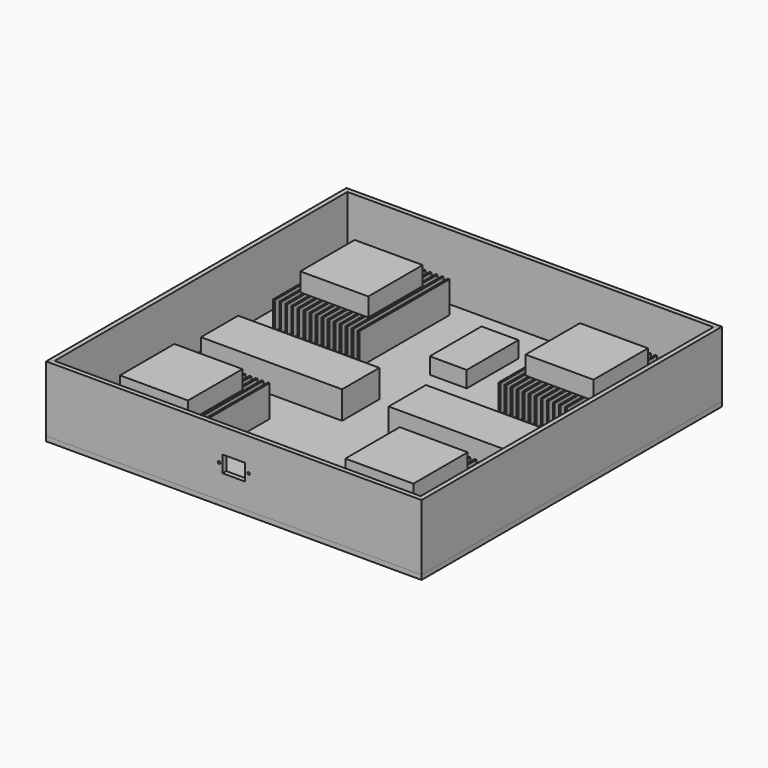
from build123d import *

# Parameters (mm, degrees)
F2_W      = 116.84
F2_H      = 5.842
F3_DEPTH  = 152.4
F4_W      = 2.5146
F4_H      = 36.8554
F5_DEPTH  = 152.4
F6_R      = 1.75
F7_DEPTH  = 42.6984
F10_W     = 508
F10_H     = 508
F10_R     = 46
F11_DEPTH = 6.35
F12_W     = 92
F12_H     = 92
F13_DEPTH = 25
F15_DEPTH = 88.9
F17_COUNT = 4
F18_W     = 30.3
F18_H     = 22.3
F18_R     = 1.7
F19_DEPTH = 508.001
F20_W     = 191
F20_H     = 63
F21_DEPTH = 37.5
F22_W     = 50
F22_H     = 87.5
F23_DEPTH = 22


with BuildPart() as f3:
    # F2 (on plane+point) → F3 (new body, through all)
    with BuildSketch(Plane.XZ.offset(-228.6)):
        with Locations((-152.4, 2.921)):
            Rectangle(F2_W, F2_H)
    extrude(amount=F3_DEPTH)

    # F4 (on face) → F5 (join, through all)
    with BuildSketch(Plane(origin=(0, 228.6, 0), x_dir=(-1, 0, 0), z_dir=(0, 1, 0))):
        with Locations((95.2373, 24.2697)):
            Rectangle(F4_W, F4_H)
        with Locations((103.4034, 24.2697)):
            Rectangle(F4_W, F4_H)
        with Locations((111.5695, 24.2697)):
            Rectangle(F4_W, F4_H)
        with Locations((119.7356, 24.2697)):
            Rectangle(F4_W, F4_H)
        with Locations((127.9017, 24.2697)):
            Rectangle(F4_W, F4_H)
        with Locations((136.0678, 24.2697)):
            Rectangle(F4_W, F4_H)
        with Locations((144.2339, 24.2697)):
            Rectangle(F4_W, F4_H)
        with Locations((152.4, 24.2697)):
            Rectangle(F4_W, F4_H)
        with Locations((160.5661, 24.2697)):
            Rectangle(F4_W, F4_H)
        with Locations((168.7322, 24.2697)):
            Rectangle(F4_W, F4_H)
        with Locations((176.8983, 24.2697)):
            Rectangle(F4_W, F4_H)
        with Locations((185.0644, 24.2697)):
            Rectangle(F4_W, F4_H)
        with Locations((193.2305, 24.2697)):
            Rectangle(F4_W, F4_H)
        with Locations((201.3966, 24.2697)):
            Rectangle(F4_W, F4_H)
        with Locations((209.5627, 24.2697)):
            Rectangle(F4_W, F4_H)
    extrude(amount=-F5_DEPTH)

    # F6 (on face) → F7 (cut, through all)
    with BuildSketch(Plane.XY):
        with Locations((-173.9, 152.4)):
            Circle(F6_R)
        with Locations((-152.4, 130.9)):
            Circle(F6_R)
        with Locations((-130.9, 152.4)):
            Circle(F6_R)
        with Locations((-152.4, 173.9)):
            Circle(F6_R)
        with Locations((-189.9, 152.4)):
            Circle(F6_R)
        with Locations((-152.4, 114.9)):
            Circle(F6_R)
        with Locations((-114.9, 152.4)):
            Circle(F6_R)
        with Locations((-152.4, 189.9)):
            Circle(F6_R)
    extrude(amount=F7_DEPTH, mode=Mode.SUBTRACT)


with BuildPart() as f8_1:
    # F8: instance of F3
    add(f3.part.mirror(Plane.YZ))


with BuildPart() as f9_1:
    # F9: instance of F3
    add(f3.part.mirror(Plane.XZ))


with BuildPart() as f9_2:
    # F9: instance of F8_1
    add(f8_1.part.mirror(Plane.XZ))


with BuildPart() as f11:
    # F10 (on face) → F11 (new body)
    with BuildSketch(Plane(origin=(0, 0, 0), x_dir=(1, 0, 0), z_dir=(0, 0, -1))):
        Rectangle(F10_W, F10_H)
        with Locations((-152.4, -152.4)):
            Circle(F10_R, mode=Mode.SUBTRACT)
        with Locations((152.4, -152.4)):
            Circle(F10_R, mode=Mode.SUBTRACT)
        with Locations((-152.4, 152.4)):
            Circle(F10_R, mode=Mode.SUBTRACT)
        with Locations((152.4, 152.4)):
            Circle(F10_R, mode=Mode.SUBTRACT)
    extrude(amount=F11_DEPTH)


with BuildPart() as f13:
    # F12 (on face) → F13 (new body)
    with BuildSketch(Plane.XY.offset(42.6974)):
        with Locations((-152.4, 152.4)):
            Rectangle(F12_W, F12_H)
    extrude(amount=F13_DEPTH)


with BuildPart() as f13b:
    # F12 (on face) → F13, piece 2 (new body)
    with BuildSketch(Plane.XY.offset(42.6974)):
        with Locations((152.4, 152.4)):
            Rectangle(F12_W, F12_H)
    extrude(amount=F13_DEPTH)


with BuildPart() as f13c:
    # F12 (on face) → F13, piece 3 (new body)
    with BuildSketch(Plane.XY.offset(42.6974)):
        with Locations((152.4, -152.4)):
            Rectangle(F12_W, F12_H)
    extrude(amount=F13_DEPTH)


with BuildPart() as f13d:
    # F12 (on face) → F13, piece 4 (new body)
    with BuildSketch(Plane.XY.offset(42.6974)):
        with Locations((-152.4, -152.4)):
            Rectangle(F12_W, F12_H)
    extrude(amount=F13_DEPTH)


with BuildPart() as f15:
    # F14 (on face) → F15 (new body)
    with BuildSketch(Plane.XY):
        Polygon((-247.65, 247.65), (-254, 254), (-254, -254), (-247.65, -247.65), align=None)
    extrude(amount=F15_DEPTH)


with BuildPart() as f17_1:
    # F17: instance of F15
    add(f15.part.rotate(Axis((0, 0, 161.4073812962), (0, 0, 1)), 1 * 360 / F17_COUNT))

    # F18 (on face) → F19 (cut, through all)
    with BuildSketch(Plane.XZ.offset(254)):
        with Locations((0, 44.45)):
            Rectangle(F18_W, F18_H)
        with Locations((-20, 44.45)):
            Circle(F18_R)
        with Locations((20, 44.45)):
            Circle(F18_R)
    extrude(amount=-F19_DEPTH, mode=Mode.SUBTRACT)


with BuildPart() as f17_2:
    # F17: instance of F15
    add(f15.part.rotate(Axis((0, 0, 161.4073812962), (0, 0, 1)), 2 * 360 / F17_COUNT))


with BuildPart() as f17_3:
    # F17: instance of F15
    add(f15.part.rotate(Axis((0, 0, 161.4073812962), (0, 0, 1)), 3 * 360 / F17_COUNT))


with BuildPart() as f21:
    # F20 (on face) → F21 (new body)
    with BuildSketch(Plane.XY):
        with Locations((-127, 0)):
            Rectangle(F20_W, F20_H)
    extrude(amount=F21_DEPTH)


with BuildPart() as f21b:
    # F20 (on face) → F21, piece 2 (new body)
    with BuildSketch(Plane.XY):
        with Locations((127, 0)):
            Rectangle(F20_W, F20_H)
    extrude(amount=F21_DEPTH)


with BuildPart() as f23:
    # F22 (on face) → F23 (new body)
    with BuildSketch(Plane.XY):
        with Locations((0, 152.4)):
            Rectangle(F22_W, F22_H)
    extrude(amount=F23_DEPTH)


solid = Compound([f3.part, f8_1.part, f9_1.part, f9_2.part, f11.part, f13.part, f13b.part, f13c.part, f13d.part, f15.part, f17_1.part, f17_2.part, f17_3.part, f21.part, f21b.part, f23.part])
